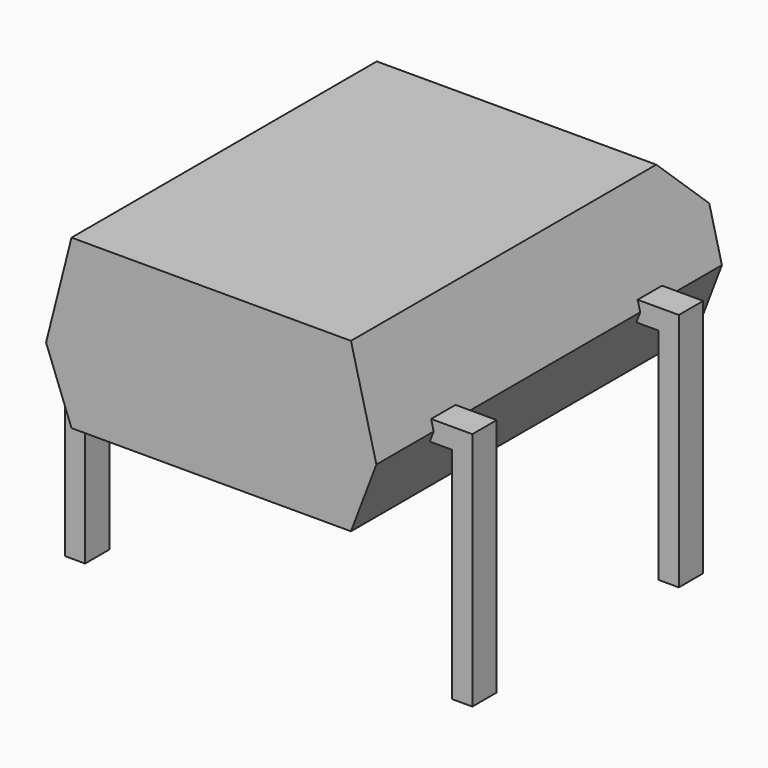
from build123d import *

# Parameters (mm, degrees)
PAD002_DEPTH = 0.3
PAD_DEPTH    = 4.25
CHAMFER_SIZE = 0.99
PAD001_DEPTH = 0.3


with BuildPart() as pad002:
    # Sketch002 → Pad002 (new body, symmetric)
    with BuildSketch(Plane.XZ.offset(5.08)):
        Polygon((-0.2, -3), (0.2, -3), (0.2, 1.32), (7.42, 1.32), (7.42, -3), (7.82, -3), (7.82, 1.72), (-0.2, 1.72), align=None)
    extrude(amount=PAD002_DEPTH, both=True)


with BuildPart() as chamfer_body:
    # Sketch → Pad (new body, symmetric)
    with BuildSketch(Plane.XZ.offset(2.54)):
        Polygon((1.06, 0.2), (6.56, 0.2), (7.06, 1.52), (6.56, 3.5), (1.06, 3.5), (0.56, 1.52), align=None)
    extrude(amount=PAD_DEPTH, both=True)

    # Chamfer
    chamfer_edges = [chamfer_body.edges().sort_by_distance(p)[0] for p in [
        (3.81, 1.71, 3.5),
    ]]
    chamfer(chamfer_edges, length=CHAMFER_SIZE)


with BuildPart() as diode_bridge_dip_4_w7_62mm_p5_08mm:
    # Sketch001 → Pad001 (new body, symmetric)
    with BuildSketch(Plane.XZ):
        Polygon((-0.2, -3), (0.2, -3), (0.2, 1.32), (7.42, 1.32), (7.42, -3), (7.82, -3), (7.82, 1.72), (-0.2, 1.72), align=None)
    extrude(amount=PAD001_DEPTH, both=True)

    add(pad002.part)
    add(chamfer_body.part)


solid = diode_bridge_dip_4_w7_62mm_p5_08mm.part
